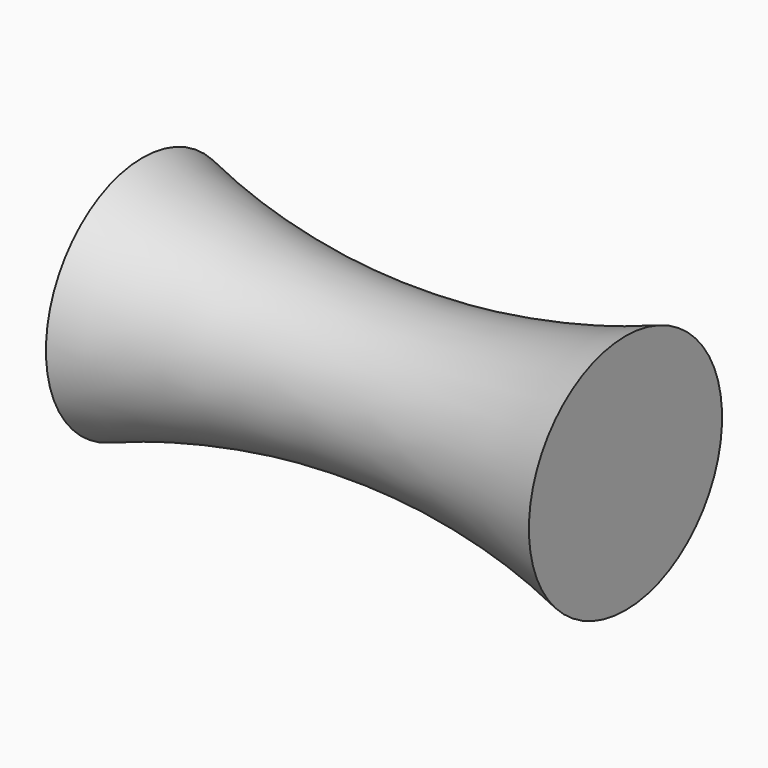
from build123d import *


with BuildPart() as f1:
    # F0 (on Front) → F1 (revolve)
    with BuildSketch(Plane.XZ):
        with BuildLine():
            ThreePointArc((5, 2.5), (0, 1.642136), (-5, 2.5))
            Line((-5, 2.5), (-5, 0))
            Line((-5, 0), (5, 0))
            Line((5, 0), (5, 2.5))
        make_face()
    revolve(axis=Axis((0, 0, 0), (1, 0, 0)))


solid = f1.part
